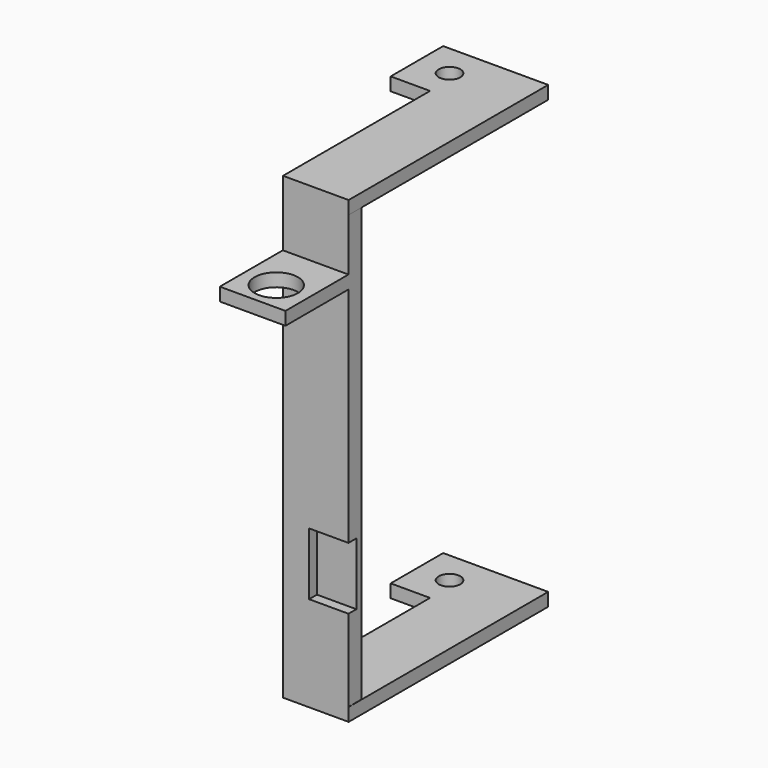
from build123d import *

# Parameters (mm, degrees)
SKETCH010_W   = 12
SKETCH010_H   = 19
PAD004_DEPTH  = 3
SKETCH003_W   = 20
SKETCH003_H   = 5
PAD001_DEPTH  = 132
PAD002_DEPTH  = 4
SKETCH005_R   = 3.3
HOLE001_DEPTH = 4.001
SKETCH006_W   = 20
SKETCH006_H   = 4
PAD003_DEPTH  = 24
SKETCH009_R   = 6.6
HOLE002_DEPTH = 4.001
PAD_DEPTH     = 4
SKETCH002_R   = 3.3
HOLE_DEPTH    = 4.001


with BuildPart() as body004:
    # Sketch010 (on Face1 of CopyPad001001) → Pad004 (new body)
    with BuildSketch(Plane.XZ.offset(43)):
        with Locations((26, -97.5)):
            Rectangle(SKETCH010_W, SKETCH010_H)
    extrude(amount=-PAD004_DEPTH)


with BuildPart() as body001:
    # Sketch003 (on Face1 of CopyHole) → Pad001 (new body)
    with BuildSketch(Plane(origin=(0, 0, 0), x_dir=(1, 0, 0), z_dir=(0, 0, -1))):
        with Locations((22, 40.5)):
            Rectangle(SKETCH003_W, SKETCH003_H)
    extrude(amount=PAD001_DEPTH)

    # Boolean: cut Body004
    add(body004.part, mode=Mode.SUBTRACT)


with BuildPart() as body002:
    # Sketch004 → Pad002 (new body)
    with BuildSketch(Plane.XY):
        Polygon((0.055073, 33), (32.055073, 33), (32.055073, -43), (12.055073, -43), (12.055073, 13), (0.055073, 13), align=None)
    extrude(amount=PAD002_DEPTH)

    # Sketch005 (on Face8 of Pad002) → Hole001 (cut, through all)
    with BuildSketch(Plane.XY.offset(4)):
        with Locations((10, 23)):
            Circle(SKETCH005_R)
    extrude(amount=-HOLE001_DEPTH, mode=Mode.SUBTRACT)


with BuildPart() as body002_1:
    # Body002 placement: moved
    add(body002.part.moved(Location((0, 0, -136))))


with BuildPart() as body003:
    # Sketch006 (on Face1 of CopyPad001) → Pad003 (new body)
    with BuildSketch(Plane.XZ.offset(43)):
        with Locations((22, -18)):
            Rectangle(SKETCH006_W, SKETCH006_H)
    extrude(amount=PAD003_DEPTH)

    # Sketch009 (on Face1 of Pad003) → Hole002 (cut, through all)
    with BuildSketch(Plane.XY.offset(-16)):
        with Locations((22, -58)):
            Circle(SKETCH009_R)
    extrude(amount=-HOLE002_DEPTH, mode=Mode.SUBTRACT)


with BuildPart() as body:
    # Sketch → Pad (new body)
    with BuildSketch(Plane.XY):
        Polygon((0.055073, 33), (32.055073, 33), (32.055073, -43), (12.055073, -43), (12.055073, 13), (0.055073, 13), align=None)
    extrude(amount=PAD_DEPTH)

    # Sketch002 (on Face8 of Pad) → Hole (cut, through all)
    with BuildSketch(Plane.XY.offset(4)):
        with Locations((10, 23)):
            Circle(SKETCH002_R)
    extrude(amount=-HOLE_DEPTH, mode=Mode.SUBTRACT)

    # Boolean001: union Body001
    add(body001.part)

    # Boolean002: union Body002
    add(body002_1.part)

    # Boolean003: union Body003
    add(body003.part)


solid = body.part
